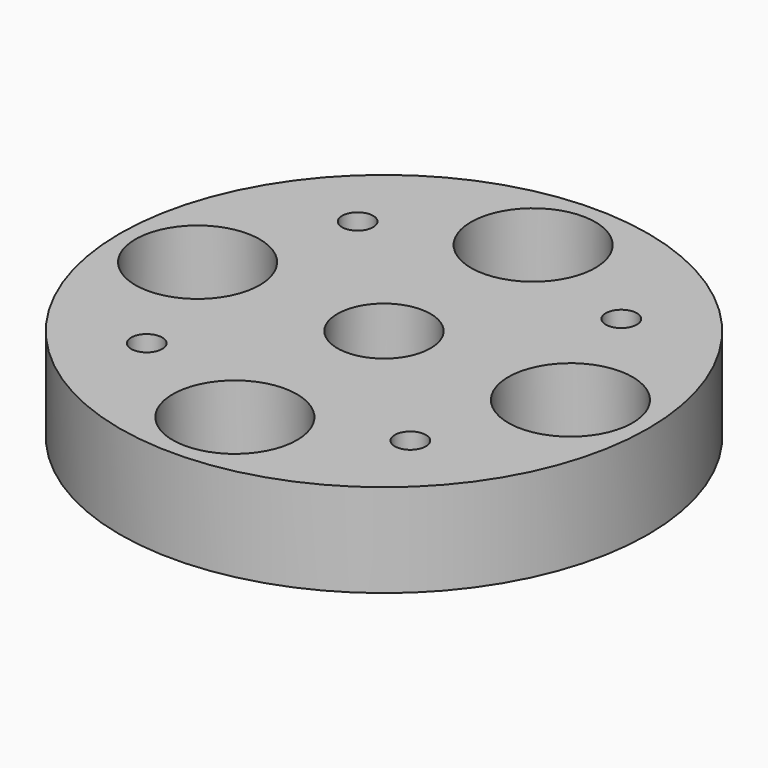
from build123d import *

# Parameters (mm, degrees)
SKETCH_R           = 8.5
SKETCH_R_2         = 1.5
PAD_DEPTH          = 3
SKETCH001_R        = 2
SKETCH001_R_2      = 0.5
POCKET_DEPTH       = 3
POLARPATTERN_COUNT = 4
SKETCH002_R        = 2
PAD001_DEPTH       = 3


with BuildPart() as part:
    # Sketch → Pad (new body)
    with BuildSketch(Plane.XY):
        Circle(SKETCH_R)
        Circle(SKETCH_R_2, mode=Mode.SUBTRACT)
    extrude(amount=PAD_DEPTH)

    # Sketch001 → Pocket (cut)
    with BuildSketch(Plane(origin=(0, 0, 0), x_dir=(1, 0, 0), z_dir=(0, 0, -1))):
        with Locations((0, 6)):
            Circle(SKETCH001_R)
        with Locations((4.24264, 4.24264)):
            Circle(SKETCH001_R_2)
    pocket = extrude(amount=-POCKET_DEPTH, mode=Mode.SUBTRACT)

    # PolarPattern: Pocket ×4 about axis
    polarpattern_axis = Axis((0, 0, 0), (0, 0, -1))
    for i in range(1, POLARPATTERN_COUNT):
        add(pocket.rotate(polarpattern_axis, i * 360 / POLARPATTERN_COUNT), mode=Mode.SUBTRACT)

    # Sketch002 → Pad001 (new body)
    with BuildSketch(Plane(origin=(0, 0, 0), x_dir=(1, 0, 0), z_dir=(0, 0, -1))):
        Circle(SKETCH002_R)
    extrude(amount=PAD001_DEPTH)


solid = part.part
